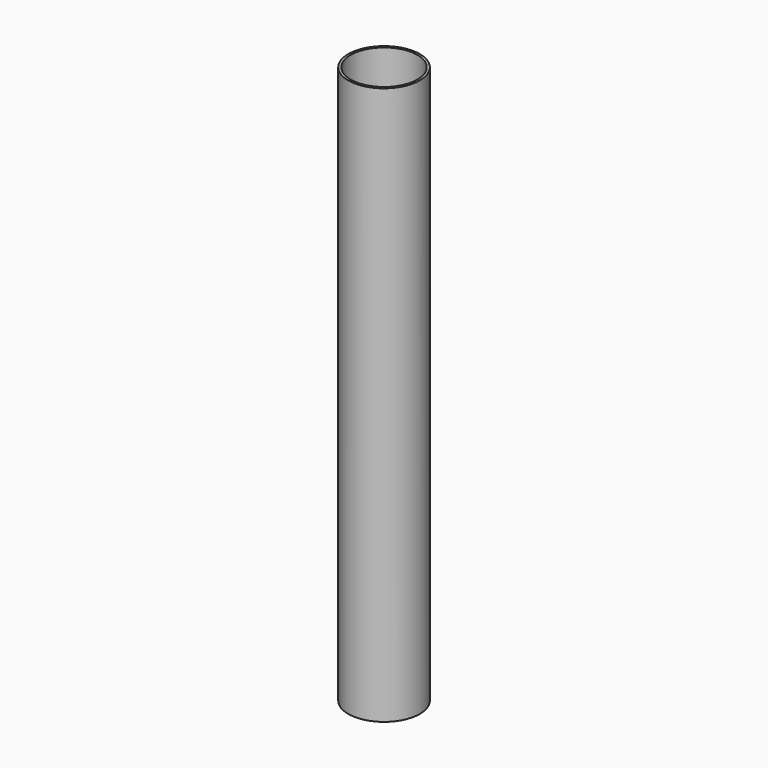
from build123d import *

# Parameters (mm, degrees)
F0_R     = 30.15
F0_R_2   = 28.15
F1_DEPTH = 470
F2_W     = 9.618693
F2_H     = 15.461885
F3_DEPTH = 1


with BuildPart() as f1:
    # F0 (on Top) → F1 (new body)
    with BuildSketch(Plane.XY):
        Circle(F0_R)
        Circle(F0_R_2, mode=Mode.SUBTRACT)
    extrude(amount=F1_DEPTH)


with BuildPart() as f3:
    # F2 (on Right) → F3 (new body)
    with BuildSketch(Plane.YZ):
        with Locations((4.809347, 7.730942)):
            Rectangle(F2_W, F2_H)
    extrude(amount=F3_DEPTH)


solid = Compound([f1.part, f3.part])
